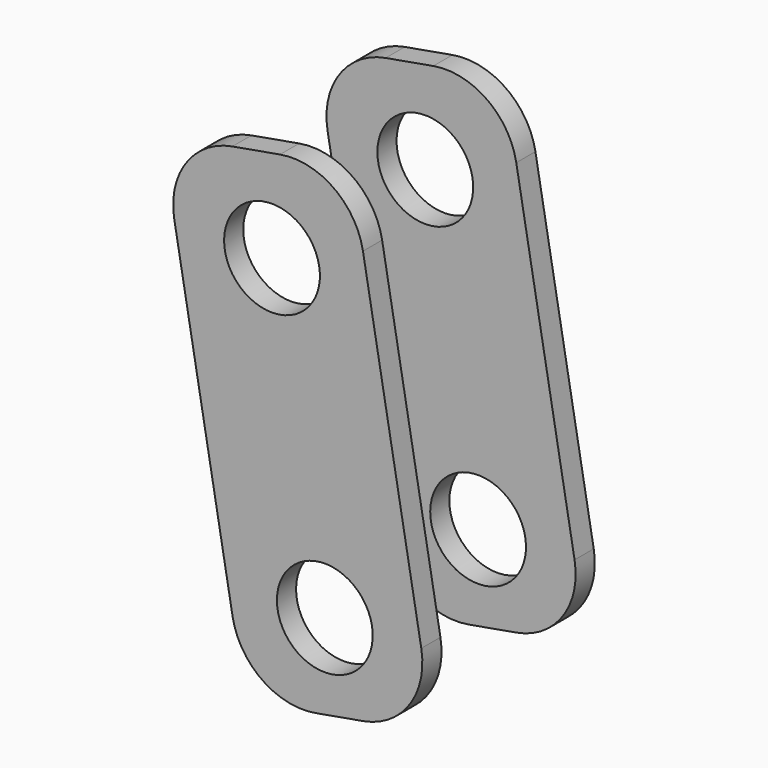
from build123d import *

# Parameters (mm, degrees)
CYLINDER657_R          = 2
CYLINDER657_DEPTH      = 10
CYLINDER657_ROLL_ANGLE = 90
CYLINDER656_R          = 2
CYLINDER656_DEPTH      = 10
CYLINDER656_ROLL_ANGLE = 90
BOX440_W               = 8
BOX440_H               = 1
BOX440_DEPTH           = 20
FILLET321_R            = 2.99
CUT560_PITCH_ANGLE     = -10
CYLINDER655_R          = 2
CYLINDER655_DEPTH      = 10
CYLINDER655_ROLL_ANGLE = 90
CYLINDER654_R          = 2
CYLINDER654_DEPTH      = 10
CYLINDER654_ROLL_ANGLE = 90
BOX439_W               = 8
BOX439_H               = 1
BOX439_DEPTH           = 20
FILLET320_R            = 2.99
CUT559_PITCH_ANGLE     = -10


with BuildPart() as cylinder734:
    # Cylinder657 → Cylinder657 (new body)
    with BuildSketch(Plane.XY):
        Circle(CYLINDER657_R)
    extrude(amount=CYLINDER657_DEPTH)


with BuildPart() as cylinder734_1:
    # Cylinder657 roll: moved
    add(cylinder734.part.rotate(Axis((0, 0, 0), (1, 0, 0)), CYLINDER657_ROLL_ANGLE))


with BuildPart() as cylinder734_2:
    # Cylinder657 placement: moved
    add(cylinder734_1.part)


with BuildPart() as fusion438:
    # Cylinder656 → Cylinder656 (new body)
    with BuildSketch(Plane.XY):
        Circle(CYLINDER656_R)
    extrude(amount=CYLINDER656_DEPTH)


with BuildPart() as fusion438_1:
    # Cylinder656 roll: moved
    add(fusion438.part.rotate(Axis((0, 0, 0), (1, 0, 0)), CYLINDER656_ROLL_ANGLE))


with BuildPart() as fusion438_2:
    # Cylinder656 placement: moved
    add(fusion438_1.part.moved(Location((0, 0, 12.7))))

    # Fusion438: union Cylinder734
    add(cylinder734_2.part)


with BuildPart() as cut850:
    # Box440 → Box440 (new body)
    with BuildSketch(Plane(origin=(-4, -1, -3.5), x_dir=(1, 0, 0), z_dir=(0, 0, 1))):
        with Locations((4, 0.5)):
            Rectangle(BOX440_W, BOX440_H)
    extrude(amount=BOX440_DEPTH)

    # Fillet321
    fillet321_edges = [cut850.edges().sort_by_distance(p)[0] for p in [
        (-4, -0.5, 16.5),
        (-4, -0.5, -3.5),
        (4, -0.5, 16.5),
        (4, -0.5, -3.5),
    ]]
    fillet(fillet321_edges, radius=FILLET321_R)

    # Cut560: cut Fusion438
    add(fusion438_2.part, mode=Mode.SUBTRACT)


with BuildPart() as cut850_1:
    # Cut560 pitch: moved
    add(cut850.part.rotate(Axis((0, 0, 0), (0, 1, 0)), CUT560_PITCH_ANGLE))


with BuildPart() as cut850_2:
    # Cut560 placement: moved
    add(cut850_1.part.moved(Location((150, 50, -27))))


with BuildPart() as cylinder732:
    # Cylinder655 → Cylinder655 (new body)
    with BuildSketch(Plane.XY):
        Circle(CYLINDER655_R)
    extrude(amount=CYLINDER655_DEPTH)


with BuildPart() as cylinder732_1:
    # Cylinder655 roll: moved
    add(cylinder732.part.rotate(Axis((0, 0, 0), (1, 0, 0)), CYLINDER655_ROLL_ANGLE))


with BuildPart() as cylinder732_2:
    # Cylinder655 placement: moved
    add(cylinder732_1.part)


with BuildPart() as fusion437:
    # Cylinder654 → Cylinder654 (new body)
    with BuildSketch(Plane.XY):
        Circle(CYLINDER654_R)
    extrude(amount=CYLINDER654_DEPTH)


with BuildPart() as fusion437_1:
    # Cylinder654 roll: moved
    add(fusion437.part.rotate(Axis((0, 0, 0), (1, 0, 0)), CYLINDER654_ROLL_ANGLE))


with BuildPart() as fusion437_2:
    # Cylinder654 placement: moved
    add(fusion437_1.part.moved(Location((0, 0, 12.7))))

    # Fusion437: union Cylinder732
    add(cylinder732_2.part)


with BuildPart() as obj1:
    # Box439 → Box439 (new body)
    with BuildSketch(Plane(origin=(-4, -1, -3.5), x_dir=(1, 0, 0), z_dir=(0, 0, 1))):
        with Locations((4, 0.5)):
            Rectangle(BOX439_W, BOX439_H)
    extrude(amount=BOX439_DEPTH)

    # Fillet320
    fillet320_edges = [obj1.edges().sort_by_distance(p)[0] for p in [
        (-4, -0.5, 16.5),
        (-4, -0.5, -3.5),
        (4, -0.5, 16.5),
        (4, -0.5, -3.5),
    ]]
    fillet(fillet320_edges, radius=FILLET320_R)

    # Cut559: cut Fusion437
    add(fusion437_2.part, mode=Mode.SUBTRACT)


with BuildPart() as obj1_1:
    # Cut559 pitch: moved
    add(obj1.part.rotate(Axis((0, 0, 0), (0, 1, 0)), CUT559_PITCH_ANGLE))


with BuildPart() as obj1_2:
    # Cut559 placement: moved
    add(obj1_1.part.moved(Location((150, 42, -27))))

    # Fusion439: union Cut850
    add(cut850_2.part)


with BuildPart() as obj1_3:
    # Fusion439 placement: moved
    add(obj1_2.part.moved(Location((0.5, 0, 1))))


solid = obj1_3.part
